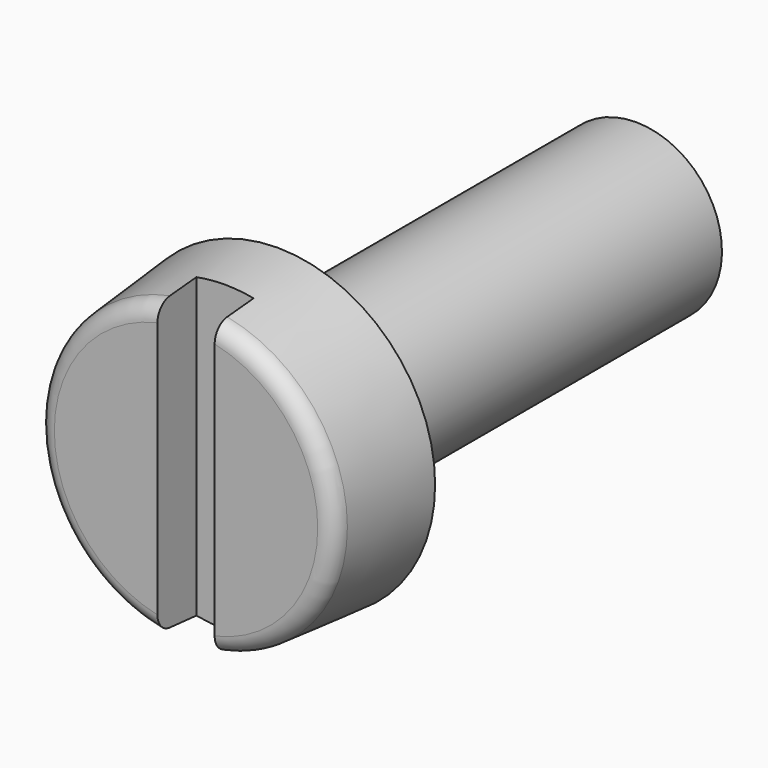
from build123d import *

# Parameters (mm, degrees)
SKETCH001_W  = 5.5
SKETCH001_H  = 1
POCKET_DEPTH = 0.85


with BuildPart() as part:
    # Sketch → Revolution (revolve)
    with BuildSketch(Plane.YZ):
        with BuildLine():
            Line((0, 2.300123), (0, 0))
            Line((0, 0), (10, 0))
            Line((10, 0), (10, 1.195))
            Line((10, 1.195), (9.823908, 1.5))
            Line((9.823908, 1.5), (2, 1.5))
            Line((2, 1.5), (2, 2.75))
            Line((2, 2.75), (0.273846, 2.598981))
            ThreePointArc((0.273846, 2.598981), (0.078815, 2.502798), (0, 2.300123))
        make_face()
    revolve(axis=Axis((0, 0, 0), (0, 1, 0)))

    # Sketch001 → Pocket (cut)
    with BuildSketch(Plane(origin=(0, 0, 0), x_dir=(0, 0, -1), z_dir=(0, -1, 0))):
        Rectangle(SKETCH001_W, SKETCH001_H)
    extrude(amount=-POCKET_DEPTH, mode=Mode.SUBTRACT)


solid = part.part
